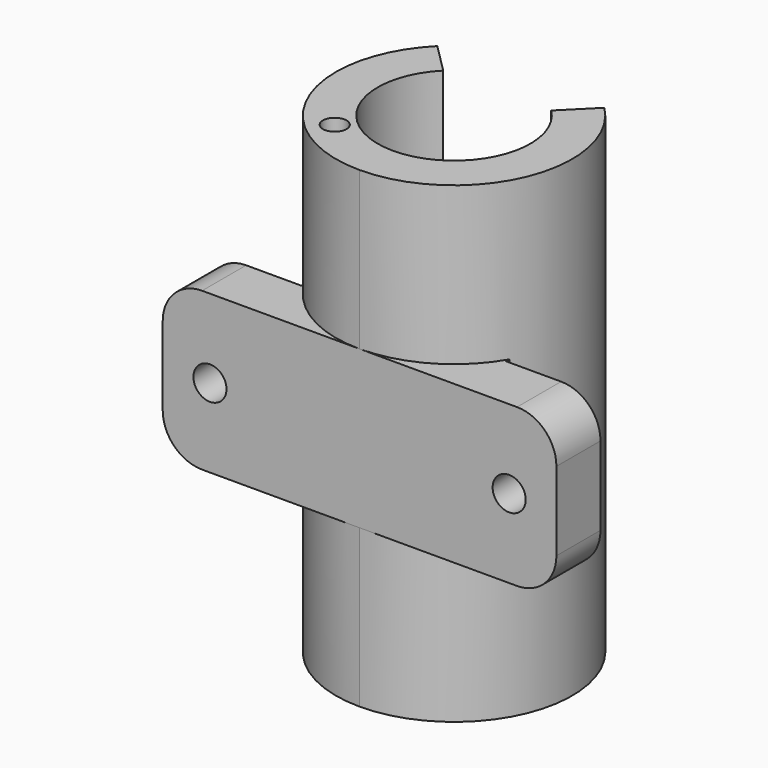
from build123d import *

# Parameters (mm, degrees)
PAD_DEPTH       = 30
SKETCH004_R     = 9.7
POCKET_DEPTH    = 29
SKETCH005_R     = 9.7
POCKET001_DEPTH = 29
SKETCH006_R     = 1.5
POCKET002_DEPTH = 10
SKETCH007_R     = 1.5
POCKET003_DEPTH = 10
PAD001_DEPTH    = 10
SKETCH008_R     = 2.1
POCKET004_DEPTH = 7
SKETCH009_R     = 3.6
POCKET005_DEPTH = 2
FILLET_R        = 5


with BuildPart() as pocket003:
    # Sketch → Pad (new body, symmetric)
    with BuildSketch(Plane.XY):
        with BuildLine():
            ThreePointArc((-5.656854, 5.656854), (0, -8), (5.656854, 5.656854))
            Line((10.606602, 10.606602), (5.656854, 5.656854))
            ThreePointArc((0, -15), (13.858193, -5.740251), (10.606602, 10.606602))
            Line((-4.3e-05, -15), (0, -15))
            ThreePointArc((-15, -4.3e-05), (-10.606602, -10.606602), (-4.3e-05, -15))
            Line((-15, 0), (-15, -4.3e-05))
            ThreePointArc((-10.606602, 10.606602), (-13.858193, 5.740251), (-15, 0))
            Line((-5.656854, 5.656854), (-10.606602, 10.606602))
        make_face()
    extrude(amount=PAD_DEPTH, both=True)

    # Sketch004 → Pocket (cut)
    with BuildSketch(Plane.XY.offset(30)):
        Circle(SKETCH004_R)
    extrude(amount=-POCKET_DEPTH, mode=Mode.SUBTRACT)

    # Sketch005 → Pocket001 (cut)
    with BuildSketch(Plane(origin=(0, 0, -30), x_dir=(1, 0, 0), z_dir=(0, 0, -1))):
        Circle(SKETCH005_R)
    extrude(amount=-POCKET001_DEPTH, mode=Mode.SUBTRACT)

    # Sketch006 → Pocket002 (cut)
    with BuildSketch(Plane.XY.offset(30)):
        with Locations((-8, -8.944272)):
            Circle(SKETCH006_R)
    extrude(amount=-POCKET002_DEPTH, mode=Mode.SUBTRACT)

    # Sketch007 → Pocket003 (cut)
    with BuildSketch(Plane(origin=(0, 0, -30), x_dir=(1, 0, 0), z_dir=(0, 0, -1))):
        with Locations((-8, 8.944272)):
            Circle(SKETCH007_R)
    extrude(amount=-POCKET003_DEPTH, mode=Mode.SUBTRACT)


with BuildPart() as fusion:
    # Sketch003 → Pad001 (new body, symmetric)
    with BuildSketch(Plane.XY):
        with BuildLine():
            ThreePointArc((-13, 0), (0, -13), (13, 0))
            Line((13, 0), (13, -8))
            Line((13, -8), (25, -8))
            Line((25, -15), (25, -8))
            Line((-25, -15), (25, -15))
            Line((-25, -8), (-25, -15))
            Line((-13, -8), (-25, -8))
            Line((-13, 0), (-13, -8))
        make_face()
    extrude(amount=PAD001_DEPTH, both=True)

    # Sketch008 → Pocket004 (cut)
    with BuildSketch(Plane.XZ.offset(15)):
        with Locations((-19, 0)):
            Circle(SKETCH008_R)
        with Locations((19, 0)):
            Circle(SKETCH008_R)
    extrude(amount=-POCKET004_DEPTH, mode=Mode.SUBTRACT)

    # Sketch009 → Pocket005 (cut)
    with BuildSketch(Plane(origin=(0, -8, 0), x_dir=(-1, 0, 0), z_dir=(0, 1, 0))):
        with Locations((-19, 0)):
            Circle(SKETCH009_R)
        with Locations((19, 0)):
            Circle(SKETCH009_R)
    extrude(amount=-POCKET005_DEPTH, mode=Mode.SUBTRACT)

    # Fillet
    fillet_edges = [fusion.edges().sort_by_distance(p)[0] for p in [
        (25, -11.5, 10),
        (25, -11.5, -10),
        (-25, -11.5, 10),
        (-25, -11.5, -10),
    ]]
    fillet(fillet_edges, radius=FILLET_R)

    # Fusion: union Pocket003
    add(pocket003.part)


solid = fusion.part
